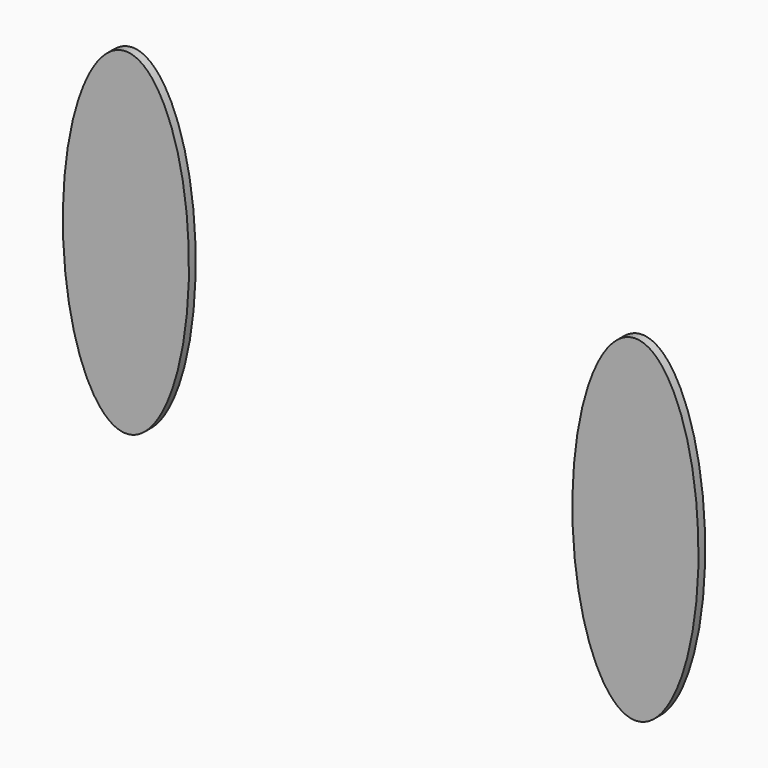
from build123d import *

# Parameters (mm, degrees)
F1_DEPTH = 1
F3_DEPTH = 1


with BuildPart() as f1:
    # F0 (on Front) → F1 (new body)
    with BuildSketch(Plane.XZ):
        with BuildLine():
            add(Edge.make_bspline(
                [(0, -20), (12.990381, -20), (6.495191, 10), (0, 40), (-6.495191, 10), (-12.990381, -20), (0, -20)],
                knots=[0, 0, 0, 2.094395, 2.094395, 4.18879, 4.18879, 6.283185, 6.283185, 6.283185], degree=2, weights=[1, 0.5, 1, 0.5, 1, 0.5, 1]))
        make_face()
    extrude(amount=F1_DEPTH)


with BuildPart() as f3:
    # F2 (on Front) → F3 (new body)
    with BuildSketch(Plane.XZ):
        with BuildLine():
            add(Edge.make_bspline(
                [(-60.588971, -9.649869), (-47.59859, -9.649869), (-54.09378, 20.350131), (-60.588971, 50.350131), (-67.084161, 20.350131), (-73.579352, -9.649869), (-60.588971, -9.649869)],
                knots=[0, 0, 0, 2.094395, 2.094395, 4.18879, 4.18879, 6.283185, 6.283185, 6.283185], degree=2, weights=[1, 0.5, 1, 0.5, 1, 0.5, 1]))
        make_face()
    extrude(amount=F3_DEPTH)


solid = Compound([f1.part, f3.part])
